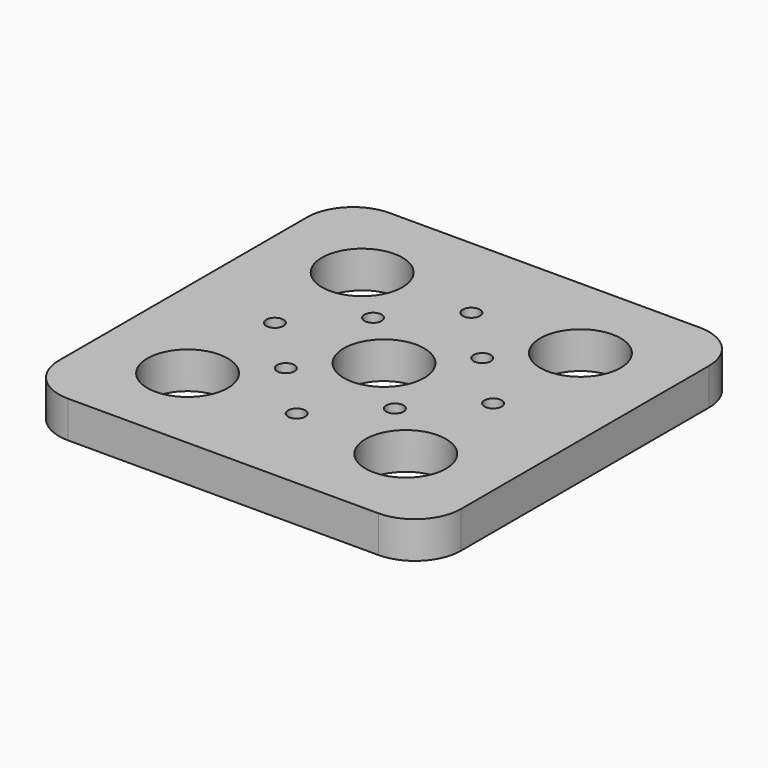
from build123d import *

# Parameters (mm, degrees)
F0_R     = 3.5
F0_R_2   = 0.75
F1_DEPTH = 3.2


with BuildPart() as f1:
    # F0 (on Top) → F1 (new body)
    with BuildSketch(Plane.XY):
        with BuildLine():
            ThreePointArc((27, 23), (25.828427, 25.828427), (23, 27))
            Line((23, 27), (-4, 27))
            ThreePointArc((-4, 27), (-6.828427, 25.828427), (-8, 23))
            Line((-8, 23), (-8, -4))
            ThreePointArc((-8, -4), (-6.828427, -6.828427), (-4, -8))
            Line((-4, -8), (23, -8))
            ThreePointArc((23, -8), (25.828427, -6.828427), (27, -4))
            Line((27, -4), (27, 23))
        make_face()
        Circle(F0_R, mode=Mode.SUBTRACT)
        with Locations((4.75, 4.75)):
            Circle(F0_R_2, mode=Mode.SUBTRACT)
        with Locations((9.5, 0)):
            Circle(F0_R_2, mode=Mode.SUBTRACT)
        with Locations((19, 0)):
            Circle(F0_R, mode=Mode.SUBTRACT)
        with Locations((14.25, 4.75)):
            Circle(F0_R_2, mode=Mode.SUBTRACT)
        with Locations((0, 9.5)):
            Circle(F0_R_2, mode=Mode.SUBTRACT)
        with Locations((4.75, 14.25)):
            Circle(F0_R_2, mode=Mode.SUBTRACT)
        with Locations((0, 19)):
            Circle(F0_R, mode=Mode.SUBTRACT)
        with Locations((9.5, 9.5)):
            Circle(F0_R, mode=Mode.SUBTRACT)
        with Locations((14.25, 14.25)):
            Circle(F0_R_2, mode=Mode.SUBTRACT)
        with Locations((19, 9.5)):
            Circle(F0_R_2, mode=Mode.SUBTRACT)
        with Locations((9.5, 19)):
            Circle(F0_R_2, mode=Mode.SUBTRACT)
        with Locations((19, 19)):
            Circle(F0_R, mode=Mode.SUBTRACT)
    extrude(amount=F1_DEPTH)


solid = f1.part
